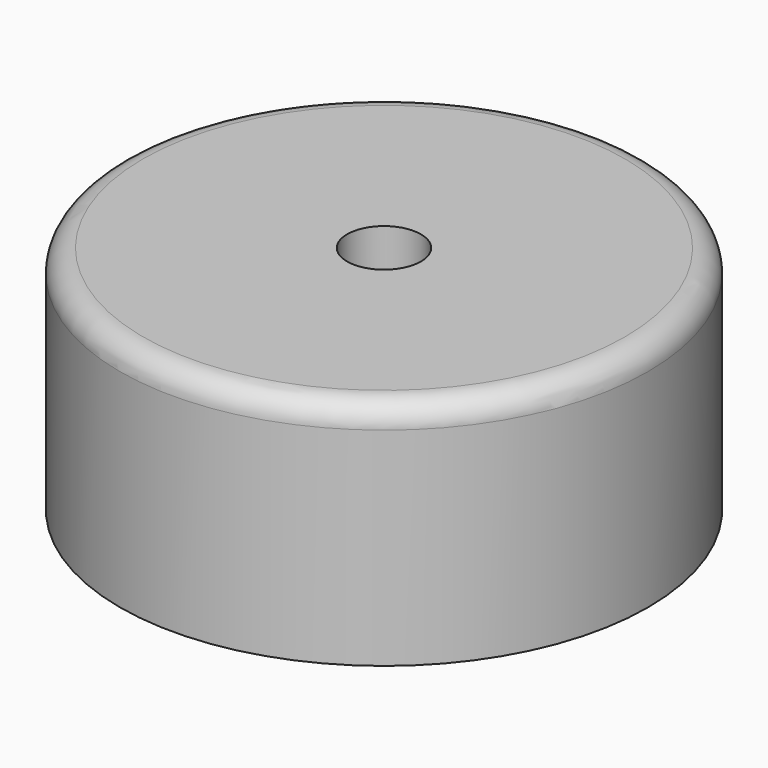
from build123d import *

# Parameters (mm, degrees)
F0_R   = 11.45
F0_R_2 = 1.6
F3_R   = 1


with BuildPart() as f2:
    # F2: sweep along a path in F1
    with BuildLine(Plane.XZ) as f2_path:
        Line((0, 0), (0, 10))
    # F0 (on Top) → F2 (sweep)
    with BuildSketch(Plane.XY):
        Circle(F0_R)
        Circle(F0_R_2, mode=Mode.SUBTRACT)
    sweep(path=f2_path.line)

    # F3
    f3_edges = [f2.edges().sort_by_distance(p)[0] for p in [
        (-11.45, 0, 10),
    ]]
    fillet(f3_edges, radius=F3_R)


solid = f2.part
